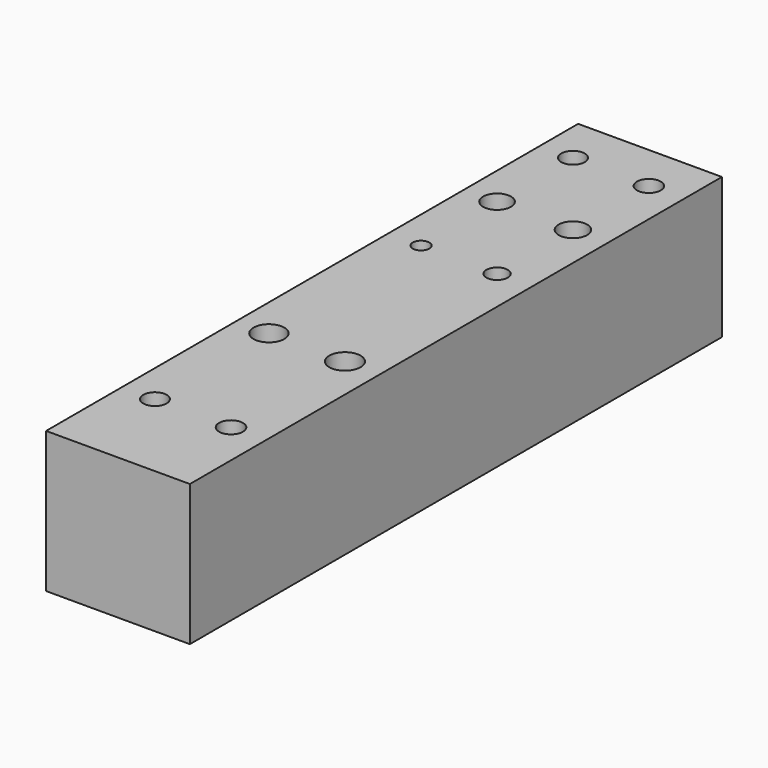
from build123d import *

# Parameters (mm, degrees)
F0_W     = 30.27
F0_H     = 140
F0_R     = 2.465
F0_R_2   = 3.245
F0_R_3   = 2.52
F0_R_4   = 3.3
F0_R_5   = 1.745
F0_R_6   = 2.935
F0_R_7   = 2.47
F0_R_8   = 2.245
F0_R_9   = 3.005
F0_R_10  = 2.505
F1_DEPTH = 17.5
F2_W     = 30.27
F2_H     = 140
F3_DEPTH = 12.18


with BuildPart() as f1:
    # F0 (on Top) → F1 (new body)
    with BuildSketch(Plane.XY):
        with Locations((15.135, 70)):
            Rectangle(F0_W, F0_H)
        with Locations((6.91, 20.01)):
            Circle(F0_R, mode=Mode.SUBTRACT)
        with Locations((6.9, 50.02)):
            Circle(F0_R_2, mode=Mode.SUBTRACT)
        with Locations((22.94, 19.99)):
            Circle(F0_R_3, mode=Mode.SUBTRACT)
        with Locations((22.91, 50)):
            Circle(F0_R_4, mode=Mode.SUBTRACT)
        with Locations((6.91, 90.03)):
            Circle(F0_R_5, mode=Mode.SUBTRACT)
        with Locations((6.91, 110.03)):
            Circle(F0_R_6, mode=Mode.SUBTRACT)
        with Locations((6.9, 130.03)):
            Circle(F0_R_7, mode=Mode.SUBTRACT)
        with Locations((22.94, 90.01)):
            Circle(F0_R_8, mode=Mode.SUBTRACT)
        with Locations((22.9, 110.01)):
            Circle(F0_R_9, mode=Mode.SUBTRACT)
        with Locations((22.9, 129.99)):
            Circle(F0_R_10, mode=Mode.SUBTRACT)
    extrude(amount=F1_DEPTH)

    # F2 (on face) + F0 (on Top) → F3 (join)
    with BuildSketch(Plane(origin=(0, 0, 0), x_dir=(1, 0, 0), z_dir=(0, 0, -1))):
        with Locations((15.135, -70)):
            Rectangle(F2_W, F2_H)
    with BuildSketch(Plane.XY):
        with Locations((15.135, 70)):
            Rectangle(F0_W, F0_H)
        with Locations((6.91, 20.01)):
            Circle(F0_R, mode=Mode.SUBTRACT)
        with Locations((6.9, 50.02)):
            Circle(F0_R_2, mode=Mode.SUBTRACT)
        with Locations((22.94, 19.99)):
            Circle(F0_R_3, mode=Mode.SUBTRACT)
        with Locations((22.91, 50)):
            Circle(F0_R_4, mode=Mode.SUBTRACT)
        with Locations((6.91, 90.03)):
            Circle(F0_R_5, mode=Mode.SUBTRACT)
        with Locations((6.91, 110.03)):
            Circle(F0_R_6, mode=Mode.SUBTRACT)
        with Locations((6.9, 130.03)):
            Circle(F0_R_7, mode=Mode.SUBTRACT)
        with Locations((22.94, 90.01)):
            Circle(F0_R_8, mode=Mode.SUBTRACT)
        with Locations((22.9, 110.01)):
            Circle(F0_R_9, mode=Mode.SUBTRACT)
        with Locations((22.9, 129.99)):
            Circle(F0_R_10, mode=Mode.SUBTRACT)
    extrude(amount=F3_DEPTH)


solid = f1.part
